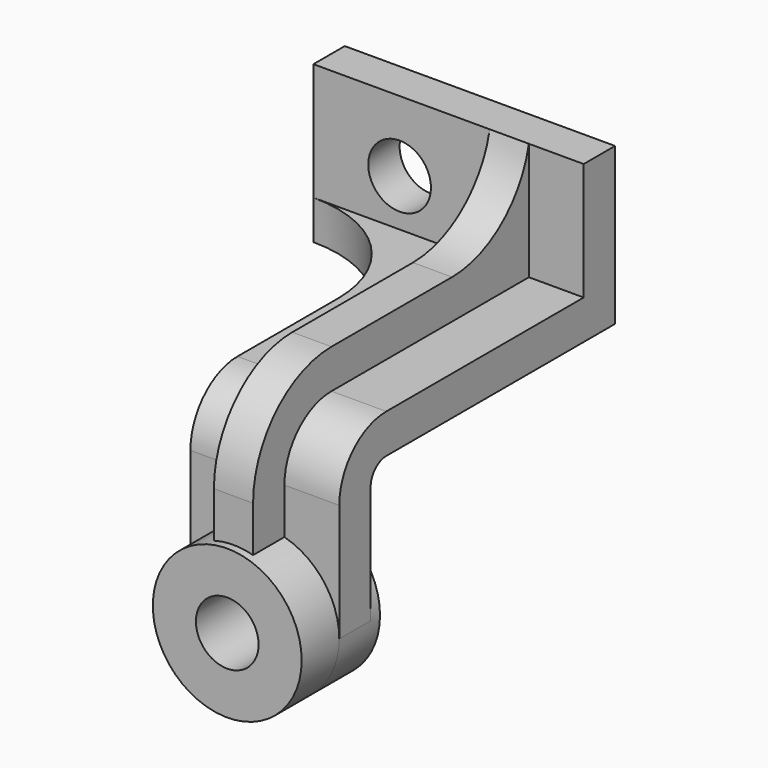
from build123d import *

# Parameters (mm, degrees)
F1_DEPTH  = 19
F2_DEPTH  = 5
F3_DEPTH  = 50
F5_DEPTH  = 45.001
F6_R      = 19
F6_R_2    = 8
F7_DEPTH  = 12
F8_DEPTH  = 13
F9_DEPTH  = 50
F10_R     = 8
F11_DEPTH = 10.001


with BuildPart() as f1:
    # F0 (on Right) → F1 (new body, symmetric)
    with BuildSketch(Plane.YZ):
        with BuildLine():
            Line((0, 0), (10, 0))
            Line((10, 0), (10, 30))
            ThreePointArc((10, 30), (11.464466, 33.535534), (15, 35))
            Line((15, 35), (88, 35))
            Line((88, 35), (88, 75))
            Line((88, 75), (78, 75))
            Line((78, 75), (78, 45))
            Line((78, 45), (15, 45))
            ThreePointArc((15, 45), (4.393398, 40.606602), (0, 30))
            Line((0, 30), (0, 0))
        make_face()
    extrude(amount=F1_DEPTH, both=True)

    # F0 (on Right) → F2 (join, symmetric)
    with BuildSketch(Plane.YZ):
        with BuildLine():
            Line((-10, 0), (0, 0))
            Line((0, 0), (0, 30))
            ThreePointArc((0, 30), (4.393398, 40.606602), (15, 45))
            Line((15, 45), (78, 45))
            Line((78, 45), (78, 75))
            ThreePointArc((78, 75), (69.316491, 60.635083), (53.505103, 55))
            Line((53.505103, 55), (15, 55))
            ThreePointArc((15, 55), (-2.67767, 47.67767), (-10, 30))
            Line((-10, 30), (-10, 0))
        make_face()
    extrude(amount=F2_DEPTH, both=True)

    # F0 (on Right) → F3 (join)
    with BuildSketch(Plane.YZ):
        with BuildLine():
            Line((0, 0), (10, 0))
            Line((10, 0), (10, 30))
            ThreePointArc((10, 30), (11.464466, 33.535534), (15, 35))
            Line((15, 35), (88, 35))
            Line((88, 35), (88, 75))
            Line((88, 75), (78, 75))
            Line((78, 75), (78, 45))
            Line((78, 45), (15, 45))
            ThreePointArc((15, 45), (4.393398, 40.606602), (0, 30))
            Line((0, 30), (0, 0))
        make_face()
    extrude(amount=-F3_DEPTH)

    # F4 (on face) → F5 (cut, through all)
    with BuildSketch(Plane.XY.offset(45)):
        with BuildLine():
            ThreePointArc((-19, 47), (-28.07969, 68.92031), (-50, 78))
            Line((-50, 78), (-50, 0))
            Line((-50, 0), (-19, 0))
            Line((-19, 0), (-19, 15))
            Line((-19, 15), (-19, 47))
        make_face()
        with BuildLine():
            ThreePointArc((-19, 47), (-28.07969, 68.92031), (-50, 78))
            Line((-50, 78), (-50, 0))
            Line((-50, 0), (-19, 0))
            Line((-19, 0), (-19, 15))
            Line((-19, 15), (-19, 47))
        make_face()
    extrude(amount=-F5_DEPTH, mode=Mode.SUBTRACT)

    # F6 (on Front) → F7 (join)
    with BuildSketch(Plane.XZ):
        Circle(F6_R)
        Circle(F6_R_2, mode=Mode.SUBTRACT)
        Circle(F6_R_2)
    extrude(amount=F7_DEPTH)

    # F6 (on Front) → F8 (join)
    with BuildSketch(Plane.XZ):
        Circle(F6_R)
        Circle(F6_R_2, mode=Mode.SUBTRACT)
        Circle(F6_R_2)
    extrude(amount=-F8_DEPTH)

    # F6 (on Front) → F9 (cut, symmetric)
    with BuildSketch(Plane.XZ):
        Circle(F6_R_2)
    extrude(amount=F9_DEPTH, both=True, mode=Mode.SUBTRACT)

    # F10 (on face) → F11 (cut, through all)
    with BuildSketch(Plane.XZ.offset(-78)):
        with Locations((-28, 57)):
            Circle(F10_R)
    extrude(amount=-F11_DEPTH, mode=Mode.SUBTRACT)


solid = f1.part
